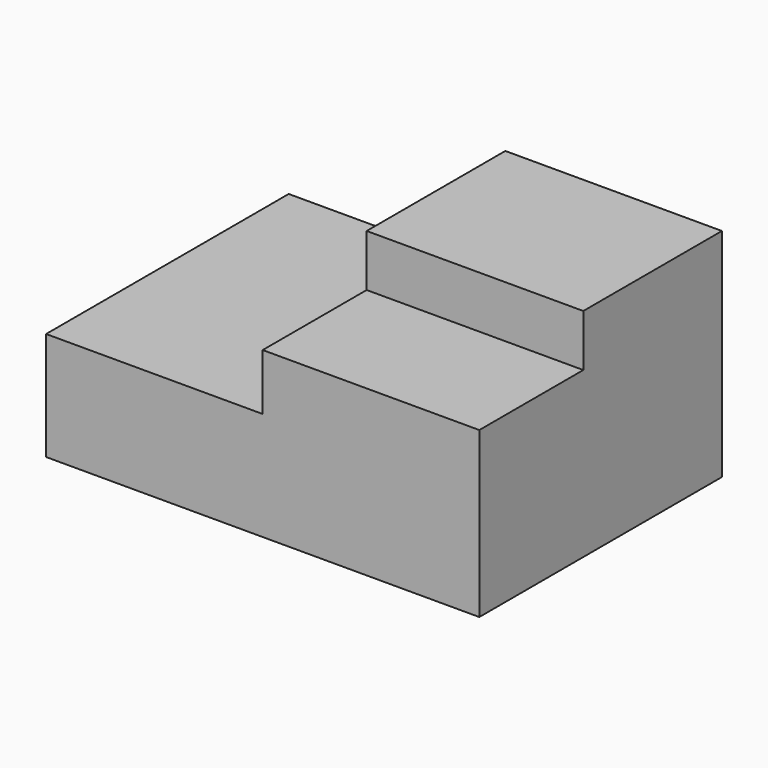
from build123d import *

# Parameters (mm, degrees)
F1_DEPTH = 70
F2_W     = 50
F2_H     = 30
F3_DEPTH = 12


with BuildPart() as f1:
    # F0 (on Front) → F1 (new body)
    with BuildSketch(Plane.XZ):
        Polygon((-50, -7.835034), (-50, -32.835034), (50, -32.835034), (50, 5.164966), (5.149159, 5.164966), (0, 5.164966), (0, -7.835034), align=None)
        Polygon((5.149159, 5.164966), (50, 5.164966), (50, 17.164966), (0, 17.164966), (0, 5.164966), align=None)
    extrude(amount=-F1_DEPTH)

    # F2 (on face) → F3 (cut)
    with BuildSketch(Plane.XY.offset(17.164966)):
        with Locations((25, 15)):
            Rectangle(F2_W, F2_H)
    extrude(amount=-F3_DEPTH, mode=Mode.SUBTRACT)


solid = f1.part
